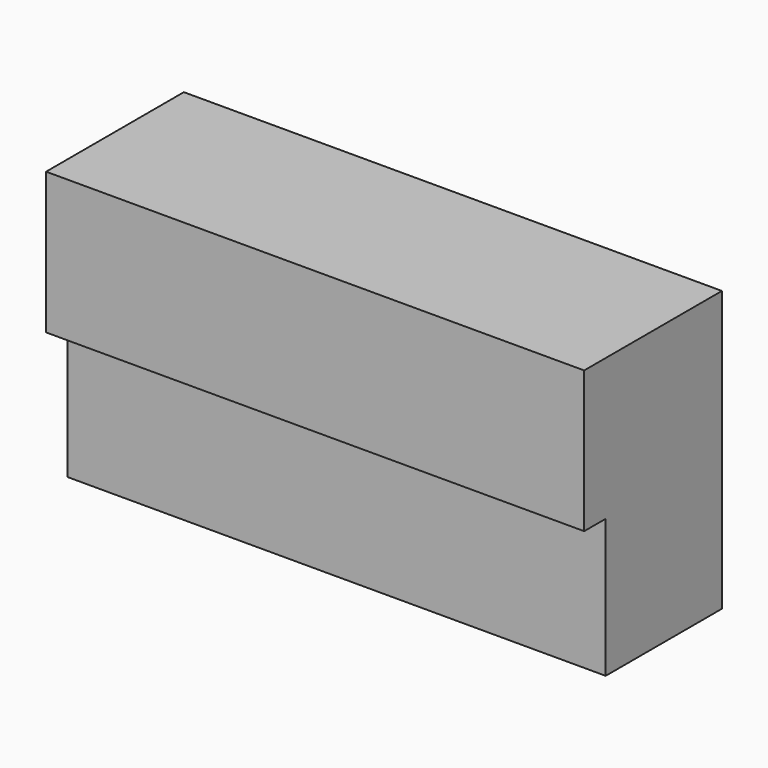
from build123d import *

# Parameters (mm, degrees)
BOX_W        = 100
BOX_H        = 32
BOX_DEPTH    = 52
SKETCH_W     = 100
SKETCH_H     = 25.7
POCKET_DEPTH = 5


with BuildPart() as part:
    # Box → Box (new body)
    with BuildSketch(Plane.XY):
        with Locations((50, 16)):
            Rectangle(BOX_W, BOX_H)
    extrude(amount=BOX_DEPTH)

    # Sketch → Pocket (cut)
    with BuildSketch(Plane.XZ):
        with Locations((50, 12.85)):
            Rectangle(SKETCH_W, SKETCH_H)
    extrude(amount=-POCKET_DEPTH, mode=Mode.SUBTRACT)


solid = part.part
